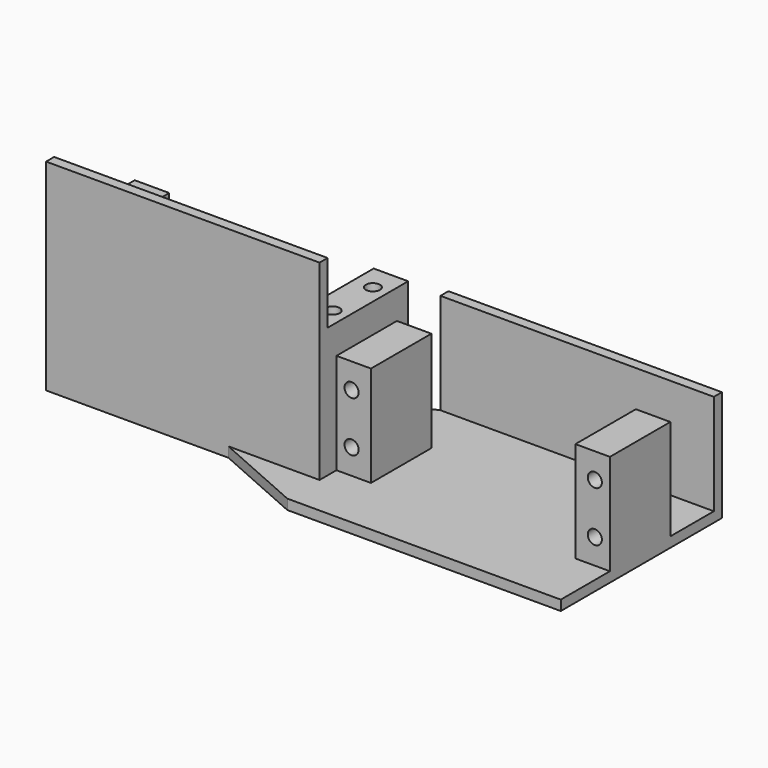
from build123d import *

# Parameters (mm, degrees)
PAD_DEPTH       = 2
SKETCH002_W     = 54.3
SKETCH002_H     = 22
PAD001_DEPTH    = 2
SKETCH003_R     = 2.95
PAD002_DEPTH    = 5
CHAMFER_SIZE    = 0.5
SKETCH004_W     = 6.85
SKETCH004_H     = 15
PAD003_DEPTH    = 20
SKETCH005_R     = 1.4
POCKET_DEPTH    = 15
SKETCH006_W     = 6.85
SKETCH006_H     = 15
PAD004_DEPTH    = 20
SKETCH007_R     = 1.4
POCKET001_DEPTH = 15
SKETCH008_W     = 54.3
SKETCH008_H     = 2
PAD005_DEPTH    = 38
SKETCH009_W     = 6.85
SKETCH009_H     = 15
PAD006_DEPTH    = 20
SKETCH010_R     = 1.4
POCKET002_DEPTH = 15
SKETCH011_W     = 6.85
SKETCH011_H     = 25.8
PAD007_DEPTH    = 20
SKETCH012_R     = 1.4
POCKET003_DEPTH = 15
SKETCH013_R     = 2.95
PAD008_DEPTH    = 5
CHAMFER001_SIZE = 0.5


with BuildPart() as body:
    # Sketch → Pad (new body)
    with BuildSketch(Plane.XY):
        Polygon((54.3, 19), (54.3, -19), (0, -19), (-18.1, -11), (-54.3, -11), (-54.3, 11), (-18.1, 11), (0, 19), align=None)
    extrude(amount=PAD_DEPTH)

    # Sketch002 (on Face2 of Pad) → Pad001 (join)
    with BuildSketch(Plane.XZ.offset(19)):
        with Locations((27.15, 11)):
            Rectangle(SKETCH002_W, SKETCH002_H)
    extrude(amount=PAD001_DEPTH)

    # Sketch003 (on Face10 of Pad001) → Pad002 (join)
    with BuildSketch(Plane.XZ.offset(21)):
        with Locations((37.25, 12)):
            Circle(SKETCH003_R)
    extrude(amount=PAD002_DEPTH)

    # Chamfer
    chamfer_edges = [body.edges().sort_by_distance(p)[0] for p in [
        (34.3, -26, 12),
    ]]
    chamfer(chamfer_edges, length=CHAMFER_SIZE)

    # Sketch004 (on Face18 of Chamfer) → Pad003 (join)
    with BuildSketch(Plane.XY.offset(2)):
        with Locations((3.425, -0.7)):
            Rectangle(SKETCH004_W, SKETCH004_H)
    extrude(amount=PAD003_DEPTH)

    # Sketch005 (on Face22 of Pad003) → Pocket (cut)
    with BuildSketch(Plane(origin=(0, 6.8, 0), x_dir=(-1, 0, 0), z_dir=(0, 1, 0))):
        with Locations((-3, 17)):
            Circle(SKETCH005_R)
        with Locations((-3, 7)):
            Circle(SKETCH005_R)
    extrude(amount=-POCKET_DEPTH, mode=Mode.SUBTRACT)

    # Sketch006 (on Face18 of Pocket) → Pad004 (join)
    with BuildSketch(Plane.XY.offset(2)):
        with Locations((50.875, -0.7)):
            Rectangle(SKETCH006_W, SKETCH006_H)
    extrude(amount=PAD004_DEPTH)

    # Sketch007 (on Face20 of Pad004) → Pocket001 (cut)
    with BuildSketch(Plane(origin=(0, 6.8, 0), x_dir=(-1, 0, 0), z_dir=(0, 1, 0))):
        with Locations((-51.3, 17)):
            Circle(SKETCH007_R)
        with Locations((-51.3, 7)):
            Circle(SKETCH007_R)
    extrude(amount=-POCKET001_DEPTH, mode=Mode.SUBTRACT)

    # Sketch008 (on Face18 of Pocket001) → Pad005 (join)
    with BuildSketch(Plane.XY.offset(2)):
        with Locations((-27.15, 10)):
            Rectangle(SKETCH008_W, SKETCH008_H)
    extrude(amount=PAD005_DEPTH)

    # Sketch009 (on Face25 of Pad005) → Pad006 (join)
    with BuildSketch(Plane.XZ.offset(-9)):
        with Locations((-50.875, 20.3)):
            Rectangle(SKETCH009_W, SKETCH009_H)
    extrude(amount=PAD006_DEPTH)

    # Sketch010 (on Face38 of Pad006) → Pocket002 (cut)
    with BuildSketch(Plane.XY.offset(27.8)):
        with Locations((-51.3, -6)):
            Circle(SKETCH010_R)
        with Locations((-51.3, 4)):
            Circle(SKETCH010_R)
    extrude(amount=-POCKET002_DEPTH, mode=Mode.SUBTRACT)

    # Sketch011 (on Face25 of Pocket002) → Pad007 (join)
    with BuildSketch(Plane.XZ.offset(-9)):
        with Locations((-3.425, 14.9)):
            Rectangle(SKETCH011_W, SKETCH011_H)
    extrude(amount=PAD007_DEPTH)

    # Sketch012 (on Face41 of Pad007) → Pocket003 (cut)
    with BuildSketch(Plane.XY.offset(27.8)):
        with Locations((-3, -6)):
            Circle(SKETCH012_R)
        with Locations((-3, 4)):
            Circle(SKETCH012_R)
    extrude(amount=-POCKET003_DEPTH, mode=Mode.SUBTRACT)

    # Sketch013 (on Face9 of Pocket003) → Pad008 (join)
    with BuildSketch(Plane(origin=(0, 0, 0), x_dir=(1, 0, 0), z_dir=(0, 0, -1))):
        with Locations((-37.25, -1)):
            Circle(SKETCH013_R)
    extrude(amount=PAD008_DEPTH)

    # Chamfer001
    chamfer001_edges = [body.edges().sort_by_distance(p)[0] for p in [
        (-40.2, 1, -5),
    ]]
    chamfer(chamfer001_edges, length=CHAMFER001_SIZE)


with BuildPart() as part_mirroring:
    # Part__Mirroring: instance of Body
    add(body.part.mirror(Plane(origin=(0, 0, 0), x_dir=(1, 0, 0), z_dir=(0, 1, 0))))


solid = part_mirroring.part
